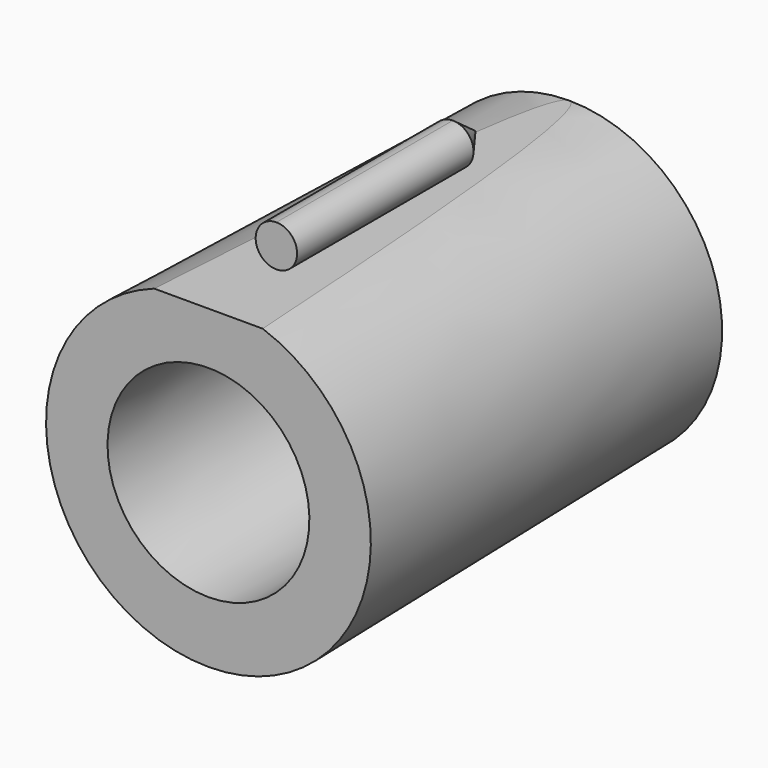
from build123d import *

# Parameters (mm, degrees)
F3_DEPTH      = 114.554
F3_DEPTH_BACK = 105.664
F2_W          = 74.6151711792
F2_H          = 7.012957707


with BuildPart() as f1:
    # F0 (on Right) → F1 (revolve)
    with BuildSketch(Plane.YZ):
        Polygon((76.2091353536, -30.9627838433), (-76.3231962919, -34.1170020401), (-76.3231962919, -54.9080483615), (76.2091353536, -51.7538301647), align=None)
    revolve(axis=Axis((0, -26.1712055653, 0.0410750508), (0, -1, 0)))

    # F2 (on Right) → F3 (cut, two sides)
    with BuildSketch(Plane.YZ) as f3_sk:
        Polygon((-77.6447206736, 51.8360547721), (76.2091651559, 51.8360547721), (76.2091651559, 58.8490124792), (36.6350226104, 58.8490124792), (27.0235743374, 58.8490124792), (-47.5915968418, 58.8490124792), (-77.6447206736, 58.8490124792), align=None)
    extrude(amount=-F3_DEPTH, mode=Mode.SUBTRACT)
    extrude(f3_sk.sketch, amount=F3_DEPTH_BACK, mode=Mode.SUBTRACT)

    # F2 (on Right) → F4 (revolve)
    with BuildSketch(Plane.YZ):
        with Locations((-10.2840112522, 62.3554913327)):
            Rectangle(F2_W, F2_H)
    revolve(axis=Axis((0, -0.7177777588, 58.8490124792), (0, -1, 0)))

    # F2 (on Right) → F5 (revolve)
    with BuildSketch(Plane.YZ):
        Polygon((27.0235743374, 58.8490124792), (36.6350226104, 58.8490124792), (27.0235743374, 65.8619701862), align=None)
    revolve(axis=Axis((0, -0.7177777588, 58.8490124792), (0, -1, 0)))


solid = f1.part
